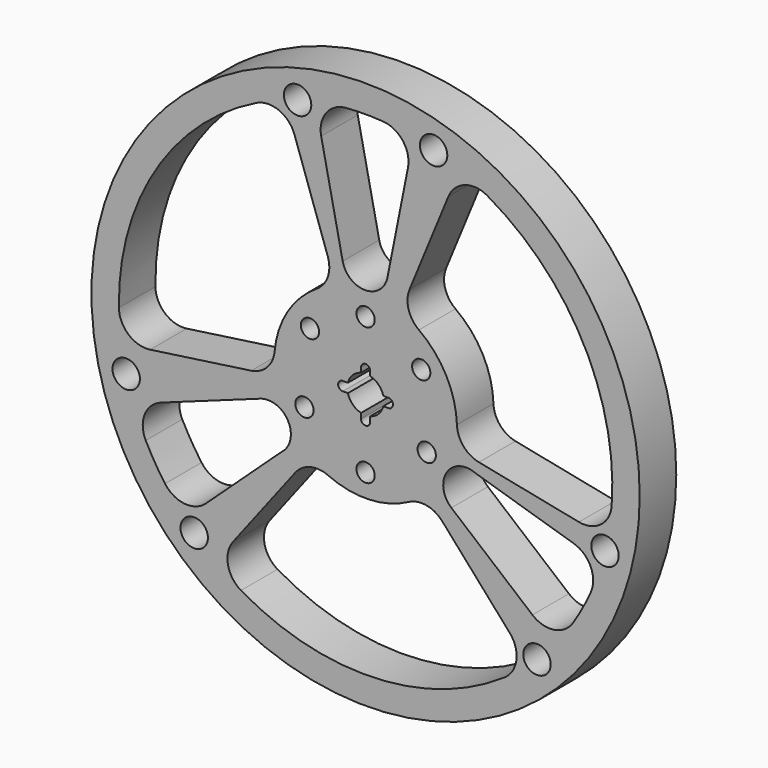
from build123d import *

# Parameters (mm, degrees)
F0_R     = 1524
F0_R_2   = 76.2
F0_R_3   = 444.5
F0_R_4   = 50.8
F1_DEPTH = 254


with BuildPart() as f1:
    # F0 (on Front) → F1 (new body)
    with BuildSketch(Plane.XZ):
        Circle(F0_R)
        with Locations((-952.793421, -986.64647)):
            Circle(F0_R_2, mode=Mode.SUBTRACT)
        with BuildLine():
            ThreePointArc((-1114.990165, -798.801285), (-1171.984116, -712.558623), (-1222.320949, -622.268477))
            ThreePointArc((-1222.320949, -622.268477), (-1228.195363, -496.99989), (-1138.129482, -409.736698))
            Line((-1138.129482, -409.736698), (-585.390639, -210.745817))
            ThreePointArc((-585.390639, -210.745817), (-437.736077, -258.264195), (-446.168948, -413.147224))
            ThreePointArc((-446.168948, -413.147224), (-456.08438, -423.422889), (-467.090677, -432.5205))
            Line((-467.090677, -432.5205), (-887.55683, -821.867236))
            ThreePointArc((-887.55683, -821.867236), (-1006.47967, -861.66781), (-1114.990165, -798.801285))
        make_face(mode=Mode.SUBTRACT)
        with Locations((-1330.857618, -331.820072)):
            Circle(F0_R_2, mode=Mode.SUBTRACT)
        with BuildLine():
            ThreePointArc((239.658898, -447.914738), (338.490874, -432.288149), (425.712253, -481.322633))
            Line((425.712253, -481.322633), (801.396956, -906.082666))
            ThreePointArc((801.396956, -906.082666), (838.473054, -1025.882877), (773.146429, -1132.930341))
            ThreePointArc((773.146429, -1132.930341), (47.666774, -1370.771476), (-692.581735, -1183.899109))
            ThreePointArc((-692.581735, -1183.899109), (-765.186441, -1081.648025), (-736.521628, -959.56176))
            Line((-736.521628, -959.56176), (-391.249654, -509.731408))
            ThreePointArc((-391.249654, -509.731408), (-307.645058, -454.756675), (-207.966335, -463.480316))
            ThreePointArc((-207.966335, -463.480316), (17.654361, -507.693139), (239.658898, -447.914738))
        make_face(mode=Mode.SUBTRACT)
        with Locations((952.793421, -986.64647)):
            Circle(F0_R_2, mode=Mode.SUBTRACT)
        with BuildLine():
            ThreePointArc((476.975801, -399.487278), (443.63118, -248.001298), (581.669091, -177.252439))
            ThreePointArc((581.669091, -177.252439), (595.540895, -180.640382), (608.944685, -185.56415))
            Line((608.944685, -185.56415), (1157.105121, -352.605473))
            ThreePointArc((1157.105121, -352.605473), (1251.400953, -435.279674), (1251.766133, -560.685392))
            ThreePointArc((1251.766133, -560.685392), (1205.983719, -653.368065), (1153.351062, -742.339469))
            ThreePointArc((1153.351062, -742.339469), (1048.102658, -810.526717), (927.346945, -776.692039))
            Line((927.346945, -776.692039), (476.975801, -399.487278))
        make_face(mode=Mode.SUBTRACT)
        with Locations((1330.857618, -331.820072)):
            Circle(F0_R_2, mode=Mode.SUBTRACT)
        with BuildLine():
            Line((-395.330862, 1143.213186), (-210.004781, 607.289381))
            ThreePointArc((-210.004781, 607.289381), (-210.159644, 507.22977), (-272.335464, 428.832595))
            ThreePointArc((-272.335464, 428.832595), (-433.491662, 264.856525), (-505.855389, 46.629663))
            ThreePointArc((-505.855389, 46.629663), (-547.239868, -44.470691), (-636.202566, -90.270125))
            Line((-636.202566, -90.270125), (-1197.641825, -169.932161))
            ThreePointArc((-1197.641825, -169.932161), (-1318.056767, -134.904039), (-1371.432673, -21.423908))
            ThreePointArc((-1371.432673, -21.423908), (-1170.427488, 715.112616), (-606.782458, 1230.081952))
            ThreePointArc((-606.782458, 1230.081952), (-481.449675, 1234.37391), (-395.330862, 1143.213186))
        make_face(mode=Mode.SUBTRACT)
        with BuildLine():
            ThreePointArc((121.547644, 612.276857), (-2.419102, 510.007433), (-127.350431, 611.096267))
            Line((-127.350431, 611.096267), (-246.782604, 1184.196448))
            ThreePointArc((-246.782604, 1184.196448), (-219.589677, 1306.618963), (-109.78636, 1367.19915))
            ThreePointArc((-109.78636, 1367.19915), (-6.505794, 1371.584571), (96.811727, 1368.1791))
            ThreePointArc((96.811727, 1368.1791), (207.184786, 1308.643268), (235.53783, 1186.484223))
            Line((235.53783, 1186.484223), (121.547644, 612.276857))
        make_face(mode=Mode.SUBTRACT)
        with Locations((-378.064197, 1318.466542)):
            Circle(F0_R_2, mode=Mode.SUBTRACT)
        Circle(F0_R_3, mode=Mode.SUBTRACT)
        with BuildLine():
            ThreePointArc((296.48543, 412.505018), (238.908941, 494.339593), (244.493877, 594.243338))
            Line((244.493877, 594.243338), (460.25607, 1118.654205))
            ThreePointArc((460.25607, 1118.654205), (551.462179, 1204.72495), (676.342409, 1193.250814))
            ThreePointArc((676.342409, 1193.250814), (1209.520112, 646.798005), (1367.945691, -100.055711))
            ThreePointArc((1367.945691, -100.055711), (1308.148308, -210.287287), (1185.922375, -238.350585))
            Line((1185.922375, -238.350585), (629.977045, -126.614861))
            ThreePointArc((629.977045, -126.614861), (543.787937, -75.787827), (507.697228, 17.536395))
            ThreePointArc((507.697228, 17.536395), (447.970412, 239.554816), (296.48543, 412.505018))
        make_face(mode=Mode.SUBTRACT)
        with Locations((378.064197, 1318.466542)):
            Circle(F0_R_2, mode=Mode.SUBTRACT)
        Circle(F0_R_3)
        with Locations((-339.929111, -172.073239)):
            Circle(F0_R_4, mode=Mode.SUBTRACT)
        with Locations((0, -381)):
            Circle(F0_R_4, mode=Mode.SUBTRACT)
        with BuildLine():
            ThreePointArc((-25.4, -98.373777), (-71.842049, -71.842049), (-98.373777, -25.4))
            Line((-98.373777, -25.4), (-127, -25.4))
            ThreePointArc((-127, -25.4), (-152.4, 0), (-127, 25.4))
            Line((-127, 25.4), (-98.373777, 25.4))
            ThreePointArc((-98.373777, 25.4), (-71.842049, 71.842049), (-25.4, 98.373777))
            Line((-25.4, 98.373777), (-25.4, 124.501452))
            ThreePointArc((-25.4, 124.501452), (0, 149.901452), (25.4, 124.501452))
            Line((25.4, 124.501452), (25.4, 98.373777))
            ThreePointArc((25.4, 98.373777), (71.842049, 71.842049), (98.373777, 25.4))
            Line((98.373777, 25.4), (127, 25.4))
            ThreePointArc((127, 25.4), (152.4, 0), (127, -25.4))
            Line((127, -25.4), (98.373777, -25.4))
            ThreePointArc((98.373777, -25.4), (71.842049, -71.842049), (25.4, -98.373777))
            Line((25.4, -98.373777), (25.4, -127))
            ThreePointArc((25.4, -127), (0, -152.4), (-25.4, -127))
            Line((-25.4, -127), (-25.4, -98.373777))
        make_face(mode=Mode.SUBTRACT)
        with Locations((339.929111, -172.073239)):
            Circle(F0_R_4, mode=Mode.SUBTRACT)
        with Locations((-309.31001, 222.459699)):
            Circle(F0_R_4, mode=Mode.SUBTRACT)
        with Locations((309.31001, 222.459699)):
            Circle(F0_R_4, mode=Mode.SUBTRACT)
        with Locations((0, 381)):
            Circle(F0_R_4, mode=Mode.SUBTRACT)
    extrude(amount=F1_DEPTH)


solid = f1.part
